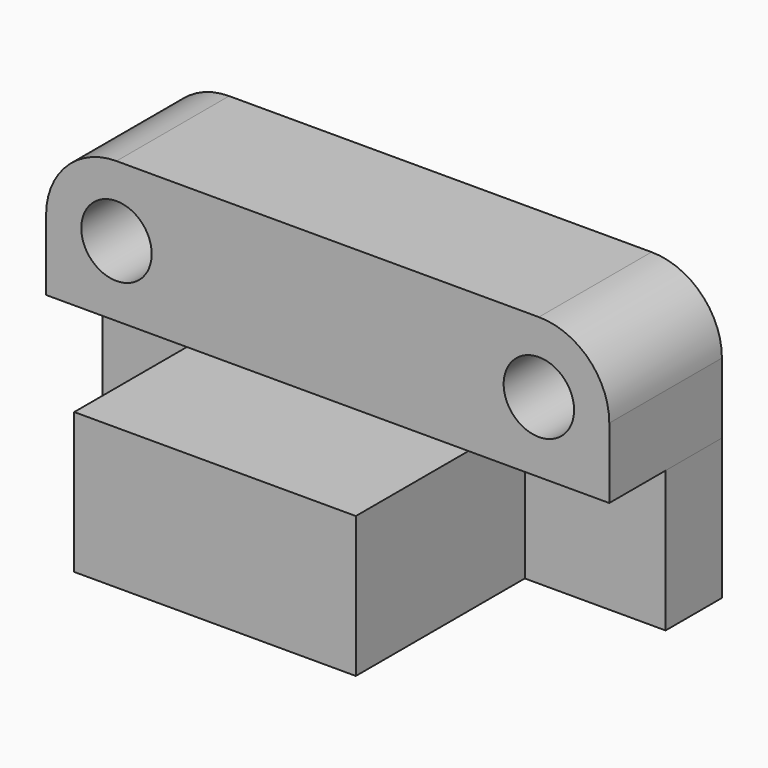
from build123d import *

# Parameters (mm, degrees)
F0_W     = 50.8
F0_H     = 50.8
F1_DEPTH = 25.4
F2_DEPTH = 25.4
F0_W_2   = 101.6
F3_DEPTH = 101.6
F0_R     = 12.7
F4_DEPTH = 50.8
F5_R     = 25.4
F6_R     = 25.4
F7_DEPTH = 25.4


with BuildPart() as f1:
    # F0 (on Front) → F1 (new body)
    with BuildSketch(Plane.XZ):
        with Locations((25.4, 25.4)):
            Rectangle(F0_W, F0_H)
    extrude(amount=F1_DEPTH)

    # F0 (on Front) → F7 (cut)
    with BuildSketch(Plane.XZ):
        with Locations((177.8, 76.2)):
            Circle(F0_R)
        with Locations((25.4, 76.2)):
            Circle(F0_R)
    extrude(amount=-F7_DEPTH, mode=Mode.SUBTRACT)


with BuildPart() as f2:
    # F0 (on Front) → F2 (new body)
    with BuildSketch(Plane.XZ):
        with Locations((177.8, 25.4)):
            Rectangle(F0_W, F0_H)
    extrude(amount=F2_DEPTH)


with BuildPart() as f3:
    # F0 (on Front) → F3 (new body)
    with BuildSketch(Plane.XZ):
        with Locations((101.6, 25.4)):
            Rectangle(F0_W_2, F0_H)
    extrude(amount=F3_DEPTH)


with BuildPart() as f4:
    # F0 (on Front) → F4 (new body)
    with BuildSketch(Plane.XZ):
        Polygon((0, 101.6), (0, 50.8), (50.8, 50.8), (152.4, 50.8), (203.2, 50.8), (203.2, 76.2), (203.2, 101.6), align=None)
        with Locations((25.4, 76.2)):
            Circle(F0_R, mode=Mode.SUBTRACT)
        with Locations((177.8, 76.2)):
            Circle(F0_R, mode=Mode.SUBTRACT)
    extrude(amount=F4_DEPTH)

    # F5
    f5_edges = [f4.edges().sort_by_distance(p)[0] for p in [
        (0, -25.4, 101.6),
    ]]
    fillet(f5_edges, radius=F5_R)

    # F6
    f6_edges = [f4.edges().sort_by_distance(p)[0] for p in [
        (203.2, -25.4, 101.6),
    ]]
    fillet(f6_edges, radius=F6_R)


solid = Compound([f1.part, f2.part, f3.part, f4.part])
